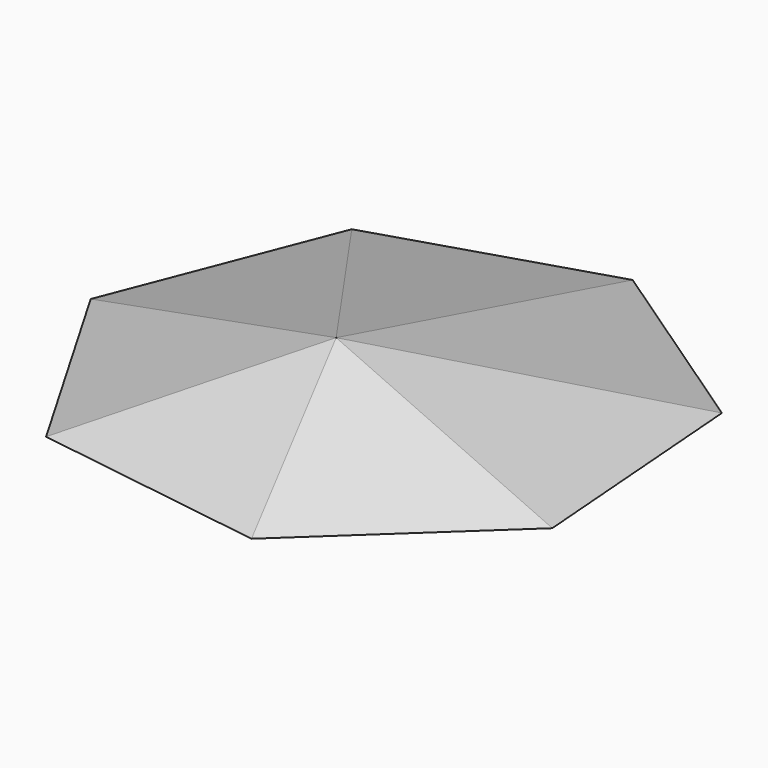
from build123d import *


with BuildPart() as f3:
    # F0 (on Top) → F3 section 0
    with BuildSketch(Plane.XY, mode=Mode.PRIVATE) as f3_s0:
        Polygon((12.097289, 81.748076), (-56.370683, 60.427133), (-82.390381, -6.396673), (-46.368442, -68.403654), (24.56988, -78.901288), (77.006581, -29.984643), (71.455756, 41.51105), align=None)
    loft([Vertex(6.095344, -23.590403, 25.4), f3_s0.sketch])


solid = f3.part
